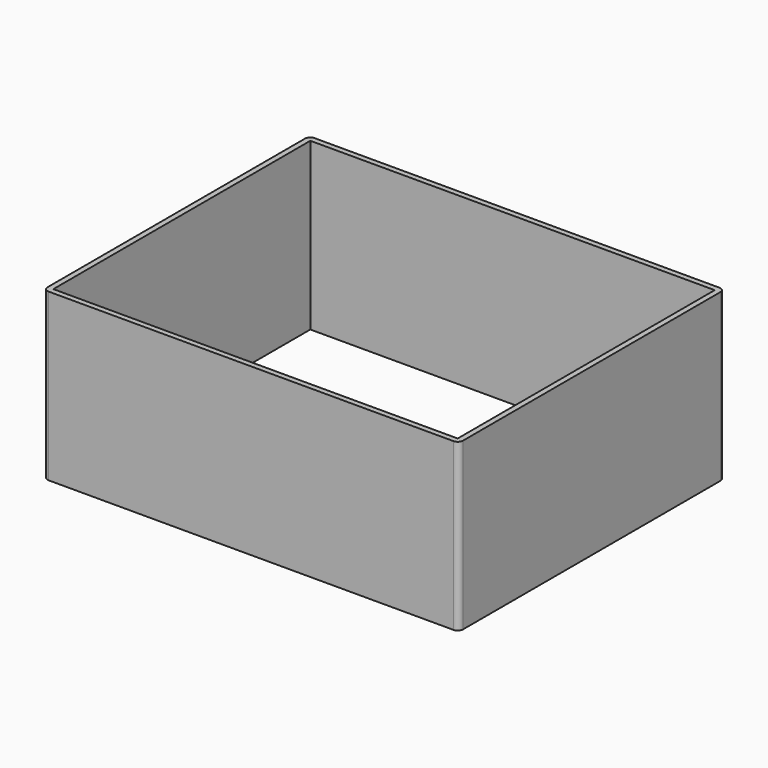
from build123d import *

# Parameters (mm, degrees)
SKETCH_W        = 150
SKETCH_H        = 120
PAD_DEPTH       = 60
SKETCH003_W     = 146
SKETCH003_H     = 116
POCKET_DEPTH    = 60
SKETCH004_R     = 6.5
POCKET001_DEPTH = 2
FILLET_R        = 1.9


with BuildPart() as part:
    # Sketch → Pad (new body)
    with BuildSketch(Plane.XY):
        with Locations((75, 60)):
            Rectangle(SKETCH_W, SKETCH_H)
    extrude(amount=PAD_DEPTH)

    # Sketch003 → Pocket (cut)
    with BuildSketch(Plane.XY):
        with Locations((75, 60)):
            Rectangle(SKETCH003_W, SKETCH003_H)
    extrude(amount=POCKET_DEPTH, mode=Mode.SUBTRACT)

    # Sketch004 → Pocket001 (cut)
    with BuildSketch(Plane.XZ.offset(-120)):
        with Locations((125, 30)):
            Circle(SKETCH004_R)
    extrude(amount=POCKET001_DEPTH, mode=Mode.SUBTRACT)

    # Fillet
    fillet_edges = [part.edges().sort_by_distance(p)[0] for p in [
        (150, 0, 30),
        (0, 0, 30),
        (0, 120, 30),
        (150, 120, 30),
    ]]
    fillet(fillet_edges, radius=FILLET_R)


solid = part.part
